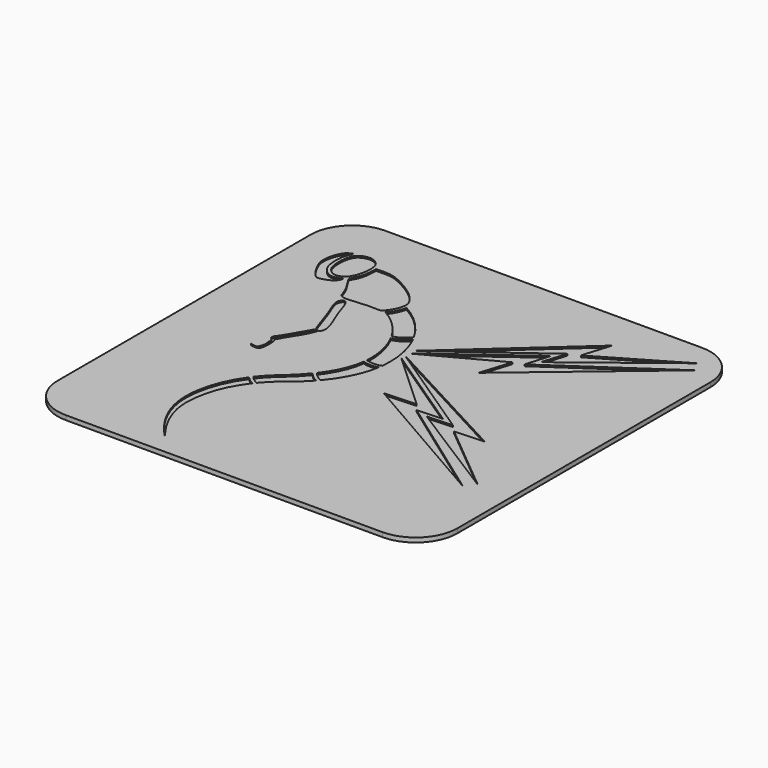
from build123d import *

# Parameters (mm, degrees)
F0_W     = 576.457128
F0_H     = 576
F1_DEPTH = 6.4
F2_DEPTH = 4
F3_R     = 60


with BuildPart() as f1:
    # F0 (on Top) → F1 (new body)
    with BuildSketch(Plane.XY):
        Rectangle(F0_W, F0_H)
        with BuildLine():
            add(Edge.make_bspline(
                [(-125.065078, -86.89559), (-141.626694, -109.834982), (-152.105502, -137.760046), (-152.121326, -167.925278)],
                knots=[0, 0, 0, 0, 1, 1, 1, 1], degree=3))
            add(Edge.make_bspline(
                [(-112.919766, -96.037774), (-117.536011, -93.828587), (-121.665054, -90.720518), (-125.065078, -86.89559)],
                knots=[0, 0, 0, 0, 1, 1, 1, 1], degree=3))
            add(Edge.make_bspline(
                [(-142.063518, -179.69871), (-142.060318, -148.750302), (-131.222806, -119.780174), (-112.919766, -96.037774)],
                knots=[0, 0, 0, 0, 1, 1, 1, 1], degree=3))
            add(Edge.make_bspline(
                [(-110.082262, -257.676838), (-127.487622, -234.974382), (-142.029006, -208.305478), (-142.063518, -179.69871)],
                knots=[0, 0, 0, 0, 1, 1, 1, 1], degree=3))
            add(Edge.make_bspline(
                [(-152.121326, -167.925278), (-152.118126, -201.876494), (-133.769582, -233.354086), (-110.082262, -257.676838)],
                knots=[0, 0, 0, 0, 1, 1, 1, 1], degree=3))
        make_face(mode=Mode.SUBTRACT)
        with BuildLine():
            add(Edge.make_bspline(
                [(-75.122894, -34.636214), (-82.442822, -43.539038), (-90.88483, -51.911574), (-100.06039, -59.756526)],
                knots=[0, 0, 0, 0, 1, 1, 1, 1], degree=3))
            add(Edge.make_bspline(
                [(-61.093206, -46.042462), (-66.609581, -43.409047), (-71.418985, -39.498964), (-75.122894, -34.636214)],
                knots=[0, 0, 0, 0, 1, 1, 1, 1], degree=3))
            add(Edge.make_bspline(
                [(-85.376014, -68.517462), (-76.649022, -61.77971), (-68.464022, -54.249582), (-61.093206, -46.042462)],
                knots=[0, 0, 0, 0, 1, 1, 1, 1], degree=3))
            add(Edge.make_bspline(
                [(-109.852582, -92.192462), (-102.663054, -83.479166), (-94.451414, -75.524198), (-85.376014, -68.517462)],
                knots=[0, 0, 0, 0, 1, 1, 1, 1], degree=3))
            add(Edge.make_bspline(
                [(-122.118206, -82.954966), (-118.797485, -86.9396), (-114.599329, -90.101318), (-109.852582, -92.192462)],
                knots=[0, 0, 0, 0, 1, 1, 1, 1], degree=3))
            add(Edge.make_bspline(
                [(-100.06039, -59.756526), (-108.104446, -66.634054), (-115.532038, -74.423182), (-122.118206, -82.954966)],
                knots=[0, 0, 0, 0, 1, 1, 1, 1], degree=3))
        make_face(mode=Mode.SUBTRACT)
        with BuildLine():
            add(Edge.make_bspline(
                [(-48.093206, 23.574722), (-50.64707, 3.702586), (-59.409086, -14.38783), (-72.024454, -30.742462)],
                knots=[0, 0, 0, 0, 1, 1, 1, 1], degree=3))
            add(Edge.make_bspline(
                [(-36.58695, 21.768474), (-40.491813, 21.783076), (-44.371692, 22.392138), (-48.093206, 23.574722)],
                knots=[0, 0, 0, 0, 1, 1, 1, 1], degree=3))
            add(Edge.make_bspline(
                [(-26.188518, 23.238786), (-29.571151, 22.275636), (-33.06989, 21.780923), (-36.58695, 21.768474)],
                knots=[0, 0, 0, 0, 1, 1, 1, 1], degree=3))
            add(Edge.make_bspline(
                [(-57.75883, -42.22371), (-41.814694, -23.36183), (-30.214814, -1.152422), (-26.188518, 23.238786)],
                knots=[0, 0, 0, 0, 1, 1, 1, 1], degree=3))
            add(Edge.make_bspline(
                [(-72.024454, -30.742462), (-68.42395, -35.816514), (-63.485315, -39.791222), (-57.75883, -42.22371)],
                knots=[0, 0, 0, 0, 1, 1, 1, 1], degree=3))
        make_face(mode=Mode.SUBTRACT)
        Polygon((63.27149, -20.204214), (-20.554198, 56.813858), (108.67809, -29.686918), (72.37809, -31.622918), (230.027882, -144.677254), (17.310002, -22.32827), align=None, mode=Mode.SUBTRACT)
        Polygon((127.040426, -34.69111), (-21.438422, 64.427466), (180.612162, -43.864702), (137.798234, -45.951734), (240.344402, -131.006262), (90.623114, -36.469406), align=None, mode=Mode.SUBTRACT)
        with BuildLine():
            add(Edge.make_bspline(
                [(-158.313518, 126.146602), (-160.212342, 126.164842), (-161.885614, 124.045074), (-162.871318, 119.00441)],
                knots=[0, 0, 0, 0, 1, 1, 1, 1], degree=3))
            add(Edge.make_bspline(
                [(-149.069766, 111.87941), (-151.356262, 120.149282), (-155.148798, 126.116138), (-158.313518, 126.146602)],
                knots=[0, 0, 0, 0, 1, 1, 1, 1], degree=3))
            add(Edge.make_bspline(
                [(-138.666638, 83.70285), (-142.584014, 92.879786), (-146.53491, 102.71129), (-149.069766, 111.87941)],
                knots=[0, 0, 0, 0, 1, 1, 1, 1], degree=3))
            add(Edge.make_bspline(
                [(-131.166638, 61.50285), (-132.797358, 69.764346), (-135.743814, 76.855626), (-138.666638, 83.70285)],
                knots=[0, 0, 0, 0, 1, 1, 1, 1], degree=3))
            add(Edge.make_bspline(
                [(-135.268206, 50.321602), (-132.257598, 50.934298), (-130.03455, 55.76757), (-131.166638, 61.50285)],
                knots=[0, 0, 0, 0, 1, 1, 1, 1], degree=3))
            add(Edge.make_bspline(
                [(-136.38695, 45.649722), (-135.692806, 47.597354), (-135.353118, 49.139538), (-135.268206, 50.321602)],
                knots=[0, 0, 0, 0, 1, 1, 1, 1], degree=3))
            add(Edge.make_bspline(
                [(-159.23851, 4.87941), (-152.657854, 18.687938), (-141.659134, 30.857018), (-136.38695, 45.649722)],
                knots=[0, 0, 0, 0, 1, 1, 1, 1], degree=3))
            add(Edge.make_bspline(
                [(-160.09007, 3.455978), (-159.793942, 3.851498), (-159.506822, 4.316394), (-159.23851, 4.87941)],
                knots=[0, 0, 0, 0, 1, 1, 1, 1], degree=3))
            add(Edge.make_bspline(
                [(-160.01663, 3.335666), (-160.03759, 3.379586), (-160.06655, 3.414786), (-160.09007, 3.455978)],
                knots=[0, 0, 0, 0, 1, 1, 1, 1], degree=3))
            add(Edge.make_bspline(
                [(-158.555702, -1.028398), (-158.847254, 0.47189), (-159.10203, 1.418522), (-160.01663, 3.335666)],
                knots=[0, 0, 0, 0, 1, 1, 1, 1], degree=3))
            add(Edge.make_bspline(
                [(-158.144766, -15.52059), (-157.52831, -10.685262), (-157.628558, -5.79923), (-158.555702, -1.028398)],
                knots=[0, 0, 0, 0, 1, 1, 1, 1], degree=3))
            add(Edge.make_bspline(
                [(-160.36507, -24.364334), (-159.101222, -21.616558), (-158.415254, -18.44727), (-158.144766, -15.52059)],
                knots=[0, 0, 0, 0, 1, 1, 1, 1], degree=3))
            add(Edge.make_bspline(
                [(-172.06351, -24.608086), (-168.972982, -25.707198), (-163.125782, -26.144566), (-160.36507, -24.364334)],
                knots=[0, 0, 0, 0, 1, 1, 1, 1], degree=3))
            add(Edge.make_bspline(
                [(-174.779134, -21.209654), (-174.143438, -22.345094), (-173.205606, -24.20191), (-172.06351, -24.608086)],
                knots=[0, 0, 0, 0, 1, 1, 1, 1], degree=3))
            add(Edge.make_bspline(
                [(-169.727574, -22.558086), (-170.77719, -22.475118), (-172.846182, -21.873718), (-174.779134, -21.209654)],
                knots=[0, 0, 0, 0, 1, 1, 1, 1], degree=3))
            add(Edge.make_bspline(
                [(-163.421318, -19.965902), (-164.362262, -21.97623), (-164.25467, -22.990686), (-169.727574, -22.558086)],
                knots=[0, 0, 0, 0, 1, 1, 1, 1], degree=3))
            add(Edge.make_bspline(
                [(-161.757262, -7.99559), (-160.985286, -11.675478), (-161.693742, -16.274886), (-163.421318, -19.965902)],
                knots=[0, 0, 0, 0, 1, 1, 1, 1], degree=3))
            add(Edge.make_bspline(
                [(-163.81351, 2.013786), (-161.858126, -1.010926), (-162.254446, -4.53315), (-161.757262, -7.99559)],
                knots=[0, 0, 0, 0, 1, 1, 1, 1], degree=3))
            add(Edge.make_bspline(
                [(-165.28851, 9.224722), (-167.471574, 6.58445), (-166.042366, 2.896978), (-163.81351, 2.013786)],
                knots=[0, 0, 0, 0, 1, 1, 1, 1], degree=3))
            add(Edge.make_bspline(
                [(-141.466638, 48.555978), (-148.927078, 36.987586), (-157.764934, 18.323562), (-165.28851, 9.224722)],
                knots=[0, 0, 0, 0, 1, 1, 1, 1], degree=3))
            add(Edge.make_bspline(
                [(-138.963518, 51.70285), (-139.740502, 50.956834), (-140.589406, 49.916234), (-141.466638, 48.555978)],
                knots=[0, 0, 0, 0, 1, 1, 1, 1], degree=3))
            add(Edge.make_bspline(
                [(-142.655702, 58.55129), (-141.57579, 55.19077), (-140.287118, 52.991578), (-138.963518, 51.70285)],
                knots=[0, 0, 0, 0, 1, 1, 1, 1], degree=3))
            add(Edge.make_bspline(
                [(-154.132262, 92.057538), (-149.840974, 80.748466), (-146.297454, 69.883826), (-142.655702, 58.55129)],
                knots=[0, 0, 0, 0, 1, 1, 1, 1], degree=3))
            add(Edge.make_bspline(
                [(-162.871318, 119.00441), (-163.81175, 114.195266), (-157.850662, 101.85697), (-154.132262, 92.057538)],
                knots=[0, 0, 0, 0, 1, 1, 1, 1], degree=3))
        make_face(mode=Mode.SUBTRACT)
        with BuildLine():
            add(Edge.make_bspline(
                [(-38.713518, 100.680978), (-44.094378, 93.930378), (-51.589473, 89.185885), (-59.993206, 87.210658)],
                knots=[0, 0, 0, 0, 1, 1, 1, 1], degree=3))
            add(Edge.make_bspline(
                [(-24.622894, 41.907538), (-24.647534, 62.704722), (-29.62903, 82.772386), (-38.713518, 100.680978)],
                knots=[0, 0, 0, 0, 1, 1, 1, 1], degree=3))
            add(Edge.make_bspline(
                [(-25.43383, 28.535666), (-24.914462, 32.930122), (-24.629518, 37.386898), (-24.622894, 41.907538)],
                knots=[0, 0, 0, 0, 1, 1, 1, 1], degree=3))
            add(Edge.make_bspline(
                [(-36.591638, 26.587226), (-32.788907, 26.600621), (-29.016042, 27.25946), (-25.43383, 28.535666)],
                knots=[0, 0, 0, 0, 1, 1, 1, 1], degree=3))
            add(Edge.make_bspline(
                [(-47.577582, 28.47629), (-44.046326, 27.239305), (-40.333257, 26.600833), (-36.591638, 26.587226)],
                knots=[0, 0, 0, 0, 1, 1, 1, 1], degree=3))
            add(Edge.make_bspline(
                [(-47.30883, 35.543474), (-47.31043, 33.163506), (-47.40127, 30.808466), (-47.577582, 28.47629)],
                knots=[0, 0, 0, 0, 1, 1, 1, 1], degree=3))
            add(Edge.make_bspline(
                [(-59.993206, 87.210658), (-51.817998, 71.516874), (-47.32287, 53.855962), (-47.30883, 35.543474)],
                knots=[0, 0, 0, 0, 1, 1, 1, 1], degree=3))
        make_face(mode=Mode.SUBTRACT)
        with BuildLine():
            add(Edge.make_bspline(
                [(-92.454142, 156.090346), (-94.141094, 147.450002), (-98.169462, 139.439194), (-104.099454, 132.932538)],
                knots=[0, 0, 0, 0, 1, 1, 1, 1], degree=3))
            add(Edge.make_bspline(
                [(-41.23539, 105.387226), (-53.000398, 126.40085), (-70.555198, 144.129682), (-92.454142, 156.090346)],
                knots=[0, 0, 0, 0, 1, 1, 1, 1], degree=3))
            add(Edge.make_bspline(
                [(-62.40883, 91.62629), (-53.830236, 93.285726), (-46.235477, 98.221674), (-41.23539, 105.387226)],
                knots=[0, 0, 0, 0, 1, 1, 1, 1], degree=3))
            add(Edge.make_bspline(
                [(-104.099454, 132.932538), (-86.468558, 122.937818), (-72.22395, 108.567338), (-62.40883, 91.62629)],
                knots=[0, 0, 0, 0, 1, 1, 1, 1], degree=3))
        make_face(mode=Mode.SUBTRACT)
        with BuildLine():
            add(Edge.make_bspline(
                [(-231.039046, 215.186098), (-237.216302, 206.323378), (-239.985806, 193.10321), (-238.17619, 183.370722)],
                knots=[0, 0, 0, 0, 1, 1, 1, 1], degree=3))
            add(Edge.make_bspline(
                [(-220.793622, 221.713138), (-223.0646014214, 221.2106287479), (-227.0423331609, 219.5044646331), (-229.7606617212, 217.0256078243), (-231.039046, 215.186098)],
                knots=[0, 0, 0, 0, 0.5127937302, 1, 1, 1, 1], degree=3))
            add(Edge.make_bspline(
                [(-226.91359, 194.661322), (-227.224542, 203.936834), (-226.124886, 212.224986), (-220.793622, 221.713138)],
                knots=[0, 0, 0, 0, 1, 1, 1, 1], degree=3))
            add(Edge.make_bspline(
                [(-214.685638, 166.840674), (-222.08823, 172.846146), (-226.391814, 179.097682), (-226.91359, 194.661322)],
                knots=[0, 0, 0, 0, 1, 1, 1, 1], degree=3))
            add(Edge.make_bspline(
                [(-192.426622, 168.014554), (-193.74211, 165.61057), (-207.197686, 160.765962), (-214.685638, 166.840674)],
                knots=[0, 0, 0, 0, 1, 1, 1, 1], degree=3))
            add(Edge.make_bspline(
                [(-197.800486, 157.33873), (-195.442398, 159.35217), (-192.002198, 162.971722), (-192.426622, 168.014554)],
                knots=[0, 0, 0, 0, 1, 1, 1, 1], degree=3))
            add(Edge.make_bspline(
                [(-218.145054, 151.014442), (-214.919254, 149.73913), (-202.43967, 153.377722), (-197.800486, 157.33873)],
                knots=[0, 0, 0, 0, 1, 1, 1, 1], degree=3))
            add(Edge.make_bspline(
                [(-238.17619, 183.370722), (-236.114742, 172.283962), (-223.601406, 153.171578), (-218.145054, 151.014442)],
                knots=[0, 0, 0, 0, 1, 1, 1, 1], degree=3))
        make_face(mode=Mode.SUBTRACT)
        with BuildLine():
            add(Edge.make_bspline(
                [(-186.762782, 218.675954), (-195.003054, 228.50693), (-208.23439, 226.72221), (-215.66107, 219.948978)],
                knots=[0, 0, 0, 0, 1, 1, 1, 1], degree=3))
            add(Edge.make_bspline(
                [(-194.405526, 172.148834), (-184.53859, 178.788442), (-178.52251, 208.844994), (-186.762782, 218.675954)],
                knots=[0, 0, 0, 0, 1, 1, 1, 1], degree=3))
            add(Edge.make_bspline(
                [(-218.010862, 177.510714), (-211.956998, 168.473018), (-204.272446, 165.509226), (-194.405526, 172.148834)],
                knots=[0, 0, 0, 0, 1, 1, 1, 1], degree=3))
            add(Edge.make_bspline(
                [(-215.66107, 219.948978), (-223.44051, 212.854058), (-224.064726, 186.54841), (-218.010862, 177.510714)],
                knots=[0, 0, 0, 0, 1, 1, 1, 1], degree=3))
        make_face(mode=Mode.SUBTRACT)
        with BuildLine():
            add(Edge.make_bspline(
                [(-186.781566, 173.048834), (-190.19183, 168.513962), (-177.38039, 160.947874), (-169.611334, 136.170922)],
                knots=[0, 0, 0, 0, 1, 1, 1, 1], degree=3))
            add(Edge.make_bspline(
                [(-178.231598, 208.511378), (-178.4949662567, 202.3605152625), (-178.7270576359, 190.7906067572), (-183.1513617029, 179.562003054), (-186.781566, 173.048834)],
                knots=[0, 0, 0, 0, 0.4856656717, 1, 1, 1, 1], degree=3))
            add(Edge.make_bspline(
                [(-178.231598, 208.511378), (-170.5193244811, 209.0064128202), (-160.2100285577, 209.0186099563), (-152.876280642, 207.4497219505), (-149.296718, 206.208154)],
                knots=[0, 0, 0, 0, 0.567319317, 1, 1, 1, 1], degree=3))
            add(Edge.make_bspline(
                [(-97.462102, 165.108154), (-102.290366, 181.092994), (-128.13971, 197.863762), (-149.296718, 206.208154)],
                knots=[0, 0, 0, 0, 1, 1, 1, 1], degree=3))
            add(Edge.make_bspline(
                [(-113.488694, 132.548546), (-107.398454, 131.97433), (-94.017118, 153.702826), (-97.462102, 165.108154)],
                knots=[0, 0, 0, 0, 1, 1, 1, 1], degree=3))
            add(Edge.make_bspline(
                [(-169.611334, 136.170922), (-166.198718, 125.28741), (-142.314478, 135.266282), (-113.488694, 132.548546)],
                knots=[0, 0, 0, 0, 1, 1, 1, 1], degree=3))
        make_face(mode=Mode.SUBTRACT)
        Polygon((83.692946, 126.893522), (-22.726918, 69.77897), (108.133754, 166.318506), (97.537666, 131.545506), (257.693386, 241.020994), (69.969162, 82.977386), align=None, mode=Mode.SUBTRACT)
        Polygon((119.116442, 181.861922), (-24.20475, 76.018682), (146.059402, 229.06533), (133.377354, 188.119594), (248.375314, 255.391121), (108.332034, 147.032626), align=None, mode=Mode.SUBTRACT)
    extrude(amount=F1_DEPTH)

    # F0 (on Top) → F2 (join)
    with BuildSketch(Plane.XY):
        with BuildLine():
            add(Edge.make_bspline(
                [(-220.793622, 221.713138), (-223.0646014214, 221.2106287479), (-227.0423331609, 219.5044646331), (-229.7606617212, 217.0256078243), (-231.039046, 215.186098)],
                knots=[0, 0, 0, 0, 0.5127937302, 1, 1, 1, 1], degree=3))
            add(Edge.make_bspline(
                [(-231.039046, 215.186098), (-237.216302, 206.323378), (-239.985806, 193.10321), (-238.17619, 183.370722)],
                knots=[0, 0, 0, 0, 1, 1, 1, 1], degree=3))
            add(Edge.make_bspline(
                [(-238.17619, 183.370722), (-236.114742, 172.283962), (-223.601406, 153.171578), (-218.145054, 151.014442)],
                knots=[0, 0, 0, 0, 1, 1, 1, 1], degree=3))
            add(Edge.make_bspline(
                [(-218.145054, 151.014442), (-214.919254, 149.73913), (-202.43967, 153.377722), (-197.800486, 157.33873)],
                knots=[0, 0, 0, 0, 1, 1, 1, 1], degree=3))
            add(Edge.make_bspline(
                [(-197.800486, 157.33873), (-195.442398, 159.35217), (-192.002198, 162.971722), (-192.426622, 168.014554)],
                knots=[0, 0, 0, 0, 1, 1, 1, 1], degree=3))
            add(Edge.make_bspline(
                [(-192.426622, 168.014554), (-193.74211, 165.61057), (-207.197686, 160.765962), (-214.685638, 166.840674)],
                knots=[0, 0, 0, 0, 1, 1, 1, 1], degree=3))
            add(Edge.make_bspline(
                [(-214.685638, 166.840674), (-222.08823, 172.846146), (-226.391814, 179.097682), (-226.91359, 194.661322)],
                knots=[0, 0, 0, 0, 1, 1, 1, 1], degree=3))
            add(Edge.make_bspline(
                [(-226.91359, 194.661322), (-227.224542, 203.936834), (-226.124886, 212.224986), (-220.793622, 221.713138)],
                knots=[0, 0, 0, 0, 1, 1, 1, 1], degree=3))
        make_face()
        with BuildLine():
            add(Edge.make_bspline(
                [(-194.405526, 172.148834), (-184.53859, 178.788442), (-178.52251, 208.844994), (-186.762782, 218.675954)],
                knots=[0, 0, 0, 0, 1, 1, 1, 1], degree=3))
            add(Edge.make_bspline(
                [(-186.762782, 218.675954), (-195.003054, 228.50693), (-208.23439, 226.72221), (-215.66107, 219.948978)],
                knots=[0, 0, 0, 0, 1, 1, 1, 1], degree=3))
            add(Edge.make_bspline(
                [(-215.66107, 219.948978), (-223.44051, 212.854058), (-224.064726, 186.54841), (-218.010862, 177.510714)],
                knots=[0, 0, 0, 0, 1, 1, 1, 1], degree=3))
            add(Edge.make_bspline(
                [(-218.010862, 177.510714), (-211.956998, 168.473018), (-204.272446, 165.509226), (-194.405526, 172.148834)],
                knots=[0, 0, 0, 0, 1, 1, 1, 1], degree=3))
        make_face()
        with BuildLine():
            add(Edge.make_bspline(
                [(-178.231598, 208.511378), (-178.4949662567, 202.3605152625), (-178.7270576359, 190.7906067572), (-183.1513617029, 179.562003054), (-186.781566, 173.048834)],
                knots=[0, 0, 0, 0, 0.4856656717, 1, 1, 1, 1], degree=3))
            add(Edge.make_bspline(
                [(-186.781566, 173.048834), (-190.19183, 168.513962), (-177.38039, 160.947874), (-169.611334, 136.170922)],
                knots=[0, 0, 0, 0, 1, 1, 1, 1], degree=3))
            add(Edge.make_bspline(
                [(-169.611334, 136.170922), (-166.198718, 125.28741), (-142.314478, 135.266282), (-113.488694, 132.548546)],
                knots=[0, 0, 0, 0, 1, 1, 1, 1], degree=3))
            add(Edge.make_bspline(
                [(-113.488694, 132.548546), (-107.398454, 131.97433), (-94.017118, 153.702826), (-97.462102, 165.108154)],
                knots=[0, 0, 0, 0, 1, 1, 1, 1], degree=3))
            add(Edge.make_bspline(
                [(-97.462102, 165.108154), (-102.290366, 181.092994), (-128.13971, 197.863762), (-149.296718, 206.208154)],
                knots=[0, 0, 0, 0, 1, 1, 1, 1], degree=3))
            add(Edge.make_bspline(
                [(-178.231598, 208.511378), (-170.5193244811, 209.0064128202), (-160.2100285577, 209.0186099563), (-152.876280642, 207.4497219505), (-149.296718, 206.208154)],
                knots=[0, 0, 0, 0, 0.567319317, 1, 1, 1, 1], degree=3))
        make_face()
        with BuildLine():
            add(Edge.make_bspline(
                [(-149.069766, 111.87941), (-151.356262, 120.149282), (-155.148798, 126.116138), (-158.313518, 126.146602)],
                knots=[0, 0, 0, 0, 1, 1, 1, 1], degree=3))
            add(Edge.make_bspline(
                [(-158.313518, 126.146602), (-160.212342, 126.164842), (-161.885614, 124.045074), (-162.871318, 119.00441)],
                knots=[0, 0, 0, 0, 1, 1, 1, 1], degree=3))
            add(Edge.make_bspline(
                [(-162.871318, 119.00441), (-163.81175, 114.195266), (-157.850662, 101.85697), (-154.132262, 92.057538)],
                knots=[0, 0, 0, 0, 1, 1, 1, 1], degree=3))
            add(Edge.make_bspline(
                [(-154.132262, 92.057538), (-149.840974, 80.748466), (-146.297454, 69.883826), (-142.655702, 58.55129)],
                knots=[0, 0, 0, 0, 1, 1, 1, 1], degree=3))
            add(Edge.make_bspline(
                [(-142.655702, 58.55129), (-141.57579, 55.19077), (-140.287118, 52.991578), (-138.963518, 51.70285)],
                knots=[0, 0, 0, 0, 1, 1, 1, 1], degree=3))
            add(Edge.make_bspline(
                [(-138.963518, 51.70285), (-139.740502, 50.956834), (-140.589406, 49.916234), (-141.466638, 48.555978)],
                knots=[0, 0, 0, 0, 1, 1, 1, 1], degree=3))
            add(Edge.make_bspline(
                [(-141.466638, 48.555978), (-148.927078, 36.987586), (-157.764934, 18.323562), (-165.28851, 9.224722)],
                knots=[0, 0, 0, 0, 1, 1, 1, 1], degree=3))
            add(Edge.make_bspline(
                [(-165.28851, 9.224722), (-167.471574, 6.58445), (-166.042366, 2.896978), (-163.81351, 2.013786)],
                knots=[0, 0, 0, 0, 1, 1, 1, 1], degree=3))
            add(Edge.make_bspline(
                [(-163.81351, 2.013786), (-161.858126, -1.010926), (-162.254446, -4.53315), (-161.757262, -7.99559)],
                knots=[0, 0, 0, 0, 1, 1, 1, 1], degree=3))
            add(Edge.make_bspline(
                [(-161.757262, -7.99559), (-160.985286, -11.675478), (-161.693742, -16.274886), (-163.421318, -19.965902)],
                knots=[0, 0, 0, 0, 1, 1, 1, 1], degree=3))
            add(Edge.make_bspline(
                [(-163.421318, -19.965902), (-164.362262, -21.97623), (-164.25467, -22.990686), (-169.727574, -22.558086)],
                knots=[0, 0, 0, 0, 1, 1, 1, 1], degree=3))
            add(Edge.make_bspline(
                [(-169.727574, -22.558086), (-170.77719, -22.475118), (-172.846182, -21.873718), (-174.779134, -21.209654)],
                knots=[0, 0, 0, 0, 1, 1, 1, 1], degree=3))
            add(Edge.make_bspline(
                [(-174.779134, -21.209654), (-174.143438, -22.345094), (-173.205606, -24.20191), (-172.06351, -24.608086)],
                knots=[0, 0, 0, 0, 1, 1, 1, 1], degree=3))
            add(Edge.make_bspline(
                [(-172.06351, -24.608086), (-168.972982, -25.707198), (-163.125782, -26.144566), (-160.36507, -24.364334)],
                knots=[0, 0, 0, 0, 1, 1, 1, 1], degree=3))
            add(Edge.make_bspline(
                [(-160.36507, -24.364334), (-159.101222, -21.616558), (-158.415254, -18.44727), (-158.144766, -15.52059)],
                knots=[0, 0, 0, 0, 1, 1, 1, 1], degree=3))
            add(Edge.make_bspline(
                [(-158.144766, -15.52059), (-157.52831, -10.685262), (-157.628558, -5.79923), (-158.555702, -1.028398)],
                knots=[0, 0, 0, 0, 1, 1, 1, 1], degree=3))
            add(Edge.make_bspline(
                [(-158.555702, -1.028398), (-158.847254, 0.47189), (-159.10203, 1.418522), (-160.01663, 3.335666)],
                knots=[0, 0, 0, 0, 1, 1, 1, 1], degree=3))
            add(Edge.make_bspline(
                [(-160.01663, 3.335666), (-160.03759, 3.379586), (-160.06655, 3.414786), (-160.09007, 3.455978)],
                knots=[0, 0, 0, 0, 1, 1, 1, 1], degree=3))
            add(Edge.make_bspline(
                [(-160.09007, 3.455978), (-159.793942, 3.851498), (-159.506822, 4.316394), (-159.23851, 4.87941)],
                knots=[0, 0, 0, 0, 1, 1, 1, 1], degree=3))
            add(Edge.make_bspline(
                [(-159.23851, 4.87941), (-152.657854, 18.687938), (-141.659134, 30.857018), (-136.38695, 45.649722)],
                knots=[0, 0, 0, 0, 1, 1, 1, 1], degree=3))
            add(Edge.make_bspline(
                [(-136.38695, 45.649722), (-135.692806, 47.597354), (-135.353118, 49.139538), (-135.268206, 50.321602)],
                knots=[0, 0, 0, 0, 1, 1, 1, 1], degree=3))
            add(Edge.make_bspline(
                [(-135.268206, 50.321602), (-132.257598, 50.934298), (-130.03455, 55.76757), (-131.166638, 61.50285)],
                knots=[0, 0, 0, 0, 1, 1, 1, 1], degree=3))
            add(Edge.make_bspline(
                [(-131.166638, 61.50285), (-132.797358, 69.764346), (-135.743814, 76.855626), (-138.666638, 83.70285)],
                knots=[0, 0, 0, 0, 1, 1, 1, 1], degree=3))
            add(Edge.make_bspline(
                [(-138.666638, 83.70285), (-142.584014, 92.879786), (-146.53491, 102.71129), (-149.069766, 111.87941)],
                knots=[0, 0, 0, 0, 1, 1, 1, 1], degree=3))
        make_face()
        with BuildLine():
            add(Edge.make_bspline(
                [(-41.23539, 105.387226), (-53.000398, 126.40085), (-70.555198, 144.129682), (-92.454142, 156.090346)],
                knots=[0, 0, 0, 0, 1, 1, 1, 1], degree=3))
            add(Edge.make_bspline(
                [(-92.454142, 156.090346), (-94.141094, 147.450002), (-98.169462, 139.439194), (-104.099454, 132.932538)],
                knots=[0, 0, 0, 0, 1, 1, 1, 1], degree=3))
            add(Edge.make_bspline(
                [(-104.099454, 132.932538), (-86.468558, 122.937818), (-72.22395, 108.567338), (-62.40883, 91.62629)],
                knots=[0, 0, 0, 0, 1, 1, 1, 1], degree=3))
            add(Edge.make_bspline(
                [(-62.40883, 91.62629), (-53.830236, 93.285726), (-46.235477, 98.221674), (-41.23539, 105.387226)],
                knots=[0, 0, 0, 0, 1, 1, 1, 1], degree=3))
        make_face()
        with BuildLine():
            add(Edge.make_bspline(
                [(-24.622894, 41.907538), (-24.647534, 62.704722), (-29.62903, 82.772386), (-38.713518, 100.680978)],
                knots=[0, 0, 0, 0, 1, 1, 1, 1], degree=3))
            add(Edge.make_bspline(
                [(-38.713518, 100.680978), (-44.094378, 93.930378), (-51.589473, 89.185885), (-59.993206, 87.210658)],
                knots=[0, 0, 0, 0, 1, 1, 1, 1], degree=3))
            add(Edge.make_bspline(
                [(-59.993206, 87.210658), (-51.817998, 71.516874), (-47.32287, 53.855962), (-47.30883, 35.543474)],
                knots=[0, 0, 0, 0, 1, 1, 1, 1], degree=3))
            add(Edge.make_bspline(
                [(-47.30883, 35.543474), (-47.31043, 33.163506), (-47.40127, 30.808466), (-47.577582, 28.47629)],
                knots=[0, 0, 0, 0, 1, 1, 1, 1], degree=3))
            add(Edge.make_bspline(
                [(-47.577582, 28.47629), (-44.046326, 27.239305), (-40.333257, 26.600833), (-36.591638, 26.587226)],
                knots=[0, 0, 0, 0, 1, 1, 1, 1], degree=3))
            add(Edge.make_bspline(
                [(-36.591638, 26.587226), (-32.788907, 26.600621), (-29.016042, 27.25946), (-25.43383, 28.535666)],
                knots=[0, 0, 0, 0, 1, 1, 1, 1], degree=3))
            add(Edge.make_bspline(
                [(-25.43383, 28.535666), (-24.914462, 32.930122), (-24.629518, 37.386898), (-24.622894, 41.907538)],
                knots=[0, 0, 0, 0, 1, 1, 1, 1], degree=3))
        make_face()
        Polygon((108.133754, 166.318506), (-22.726918, 69.77897), (83.692946, 126.893522), (69.969162, 82.977386), (257.693386, 241.020994), (97.537666, 131.545506), align=None)
        Polygon((146.059402, 229.06533), (-24.20475, 76.018682), (119.116442, 181.861922), (108.332034, 147.032626), (248.375314, 255.391121), (133.377354, 188.119594), align=None)
        Polygon((108.67809, -29.686918), (-20.554198, 56.813858), (63.27149, -20.204214), (17.310002, -22.32827), (230.027882, -144.677254), (72.37809, -31.622918), align=None)
        Polygon((180.612162, -43.864702), (-21.438422, 64.427466), (127.040426, -34.69111), (90.623114, -36.469406), (240.344402, -131.006262), (137.798234, -45.951734), align=None)
        with BuildLine():
            add(Edge.make_bspline(
                [(-36.58695, 21.768474), (-40.491813, 21.783076), (-44.371692, 22.392138), (-48.093206, 23.574722)],
                knots=[0, 0, 0, 0, 1, 1, 1, 1], degree=3))
            add(Edge.make_bspline(
                [(-48.093206, 23.574722), (-50.64707, 3.702586), (-59.409086, -14.38783), (-72.024454, -30.742462)],
                knots=[0, 0, 0, 0, 1, 1, 1, 1], degree=3))
            add(Edge.make_bspline(
                [(-72.024454, -30.742462), (-68.42395, -35.816514), (-63.485315, -39.791222), (-57.75883, -42.22371)],
                knots=[0, 0, 0, 0, 1, 1, 1, 1], degree=3))
            add(Edge.make_bspline(
                [(-57.75883, -42.22371), (-41.814694, -23.36183), (-30.214814, -1.152422), (-26.188518, 23.238786)],
                knots=[0, 0, 0, 0, 1, 1, 1, 1], degree=3))
            add(Edge.make_bspline(
                [(-26.188518, 23.238786), (-29.571151, 22.275636), (-33.06989, 21.780923), (-36.58695, 21.768474)],
                knots=[0, 0, 0, 0, 1, 1, 1, 1], degree=3))
        make_face()
        with BuildLine():
            add(Edge.make_bspline(
                [(-61.093206, -46.042462), (-66.609581, -43.409047), (-71.418985, -39.498964), (-75.122894, -34.636214)],
                knots=[0, 0, 0, 0, 1, 1, 1, 1], degree=3))
            add(Edge.make_bspline(
                [(-75.122894, -34.636214), (-82.442822, -43.539038), (-90.88483, -51.911574), (-100.06039, -59.756526)],
                knots=[0, 0, 0, 0, 1, 1, 1, 1], degree=3))
            add(Edge.make_bspline(
                [(-100.06039, -59.756526), (-108.104446, -66.634054), (-115.532038, -74.423182), (-122.118206, -82.954966)],
                knots=[0, 0, 0, 0, 1, 1, 1, 1], degree=3))
            add(Edge.make_bspline(
                [(-122.118206, -82.954966), (-118.797485, -86.9396), (-114.599329, -90.101318), (-109.852582, -92.192462)],
                knots=[0, 0, 0, 0, 1, 1, 1, 1], degree=3))
            add(Edge.make_bspline(
                [(-109.852582, -92.192462), (-102.663054, -83.479166), (-94.451414, -75.524198), (-85.376014, -68.517462)],
                knots=[0, 0, 0, 0, 1, 1, 1, 1], degree=3))
            add(Edge.make_bspline(
                [(-85.376014, -68.517462), (-76.649022, -61.77971), (-68.464022, -54.249582), (-61.093206, -46.042462)],
                knots=[0, 0, 0, 0, 1, 1, 1, 1], degree=3))
        make_face()
        with BuildLine():
            add(Edge.make_bspline(
                [(-112.919766, -96.037774), (-117.536011, -93.828587), (-121.665054, -90.720518), (-125.065078, -86.89559)],
                knots=[0, 0, 0, 0, 1, 1, 1, 1], degree=3))
            add(Edge.make_bspline(
                [(-125.065078, -86.89559), (-141.626694, -109.834982), (-152.105502, -137.760046), (-152.121326, -167.925278)],
                knots=[0, 0, 0, 0, 1, 1, 1, 1], degree=3))
            add(Edge.make_bspline(
                [(-152.121326, -167.925278), (-152.118126, -201.876494), (-133.769582, -233.354086), (-110.082262, -257.676838)],
                knots=[0, 0, 0, 0, 1, 1, 1, 1], degree=3))
            add(Edge.make_bspline(
                [(-110.082262, -257.676838), (-127.487622, -234.974382), (-142.029006, -208.305478), (-142.063518, -179.69871)],
                knots=[0, 0, 0, 0, 1, 1, 1, 1], degree=3))
            add(Edge.make_bspline(
                [(-142.063518, -179.69871), (-142.060318, -148.750302), (-131.222806, -119.780174), (-112.919766, -96.037774)],
                knots=[0, 0, 0, 0, 1, 1, 1, 1], degree=3))
        make_face()
    extrude(amount=F2_DEPTH)

    # F3
    f3_edges = [f1.edges().sort_by_distance(p)[0] for p in [
        (-288.228564, -288, 3.2),
        (-288.228564, 288, 3.2),
        (288.228564, -288, 3.2),
        (288.228564, 288, 3.2),
    ]]
    fillet(f3_edges, radius=F3_R)


solid = f1.part
